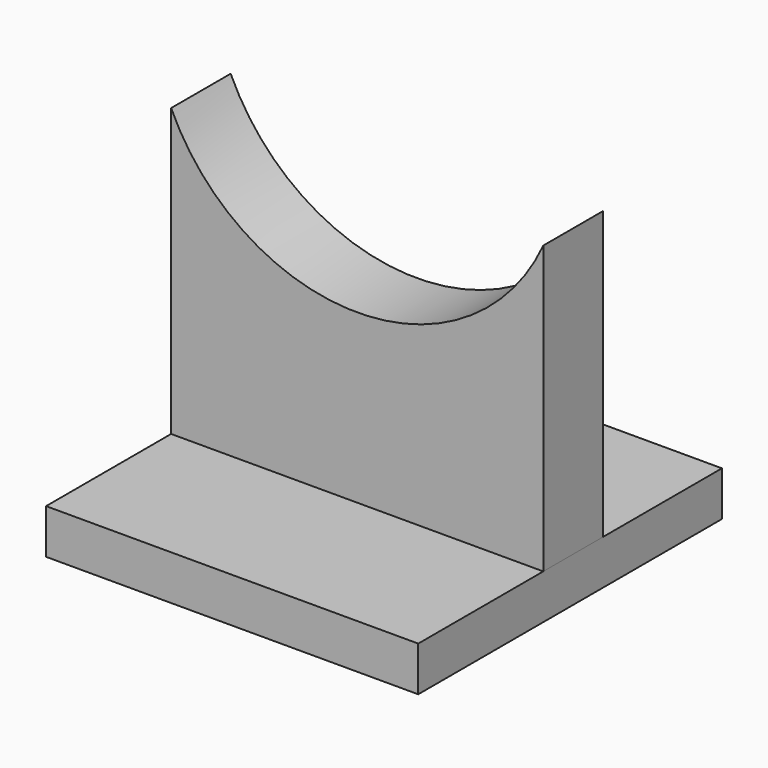
from build123d import *

# Parameters (mm, degrees)
F0_W     = 50
F0_H     = 51
F1_DEPTH = 6
F2_W     = 50
F2_H     = 10
F3_DEPTH = 50
F5_D     = 55


with BuildPart() as f1:
    # F0 (on Top) → F1 (new body)
    with BuildSketch(Plane.XY):
        with Locations((0, -0.5)):
            Rectangle(F0_W, F0_H)
    extrude(amount=F1_DEPTH)


with BuildPart() as f3:
    # F2 (on face) → F3 (new body)
    with BuildSketch(Plane.XY.offset(6)):
        Rectangle(F2_W, F2_H)
    extrude(amount=F3_DEPTH)

    # F5 (through all)
    with Locations(Plane.XZ.offset(5)):
        with Locations((0, 56)):
            Hole(F5_D / 2)


solid = Compound([f1.part, f3.part])
